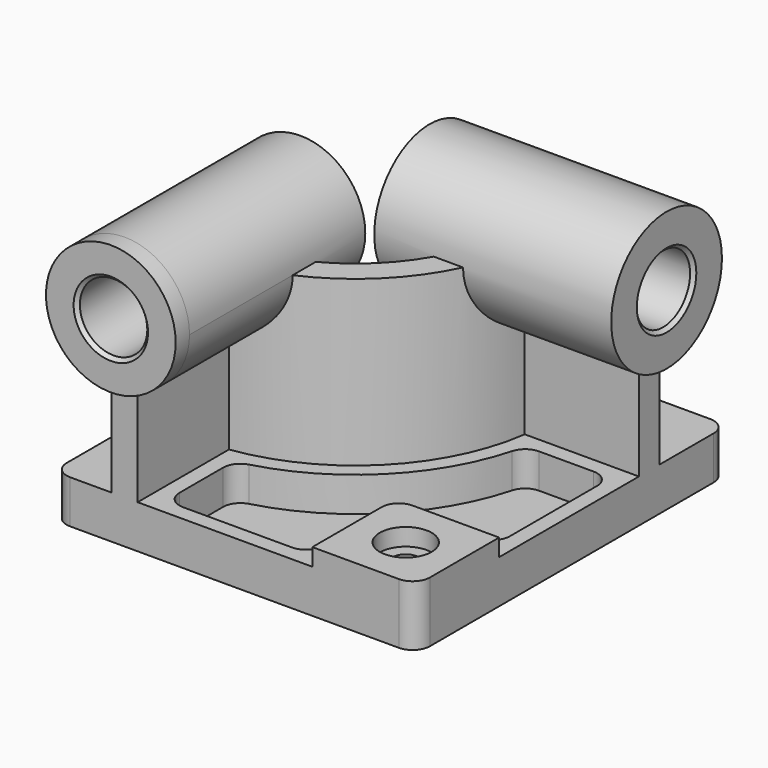
from build123d import *

# Parameters (mm, degrees)
F0_W            = 5334
F0_H            = 5715
F1_DEPTH        = 635
F3_DEPTH        = 2413
F4_R            = 952.5
F5_DEPTH        = 254
F5_DEPTH_BACK   = 3225.8
F6_R            = 1016
F7_DEPTH        = 254
F7_DEPTH_BACK   = 3225.8
F8_W            = 1524
F8_H            = 1524
F9_DEPTH        = 254
F10_R           = 254
F12_DEPTH       = 508
F14_D           = 381
F14_CBORE_D     = 762
F14_CBORE_DEPTH = 254
F15_R           = 254
F16_R           = 495.3
F17_DEPTH       = 5969.001
F18_R           = 495.3
F19_DEPTH       = 5588.001
F20_SIZE        = 50.8
F21_R           = 254


with BuildPart() as f1:
    # F0 (on Top) → F1 (new body)
    with BuildSketch(Plane.XY):
        Rectangle(F0_W, F0_H)
    extrude(amount=F1_DEPTH)

    # F2 (on face) → F3 (join)
    with BuildSketch(Plane.XY.offset(635)):
        with BuildLine():
            Line((-1803.4, -825.5), (-1803.4, -2857.5))
            Line((-1803.4, -2857.5), (-1422.4, -2857.5))
            Line((-1422.4, -2857.5), (-1422.4, -1180.638144))
            ThreePointArc((-1422.4, -1180.638144), (190.216859, -380.716859), (990.138144, 1231.9))
            Line((990.138144, 1231.9), (2667, 1231.9))
            Line((2667, 1231.9), (2667, 1612.9))
            Line((2667, 1612.9), (635, 1612.9))
            ThreePointArc((635, 1612.9), (-79.190825, -111.309175), (-1803.4, -825.5))
        make_face()
    extrude(amount=F3_DEPTH)

    # F4 (on face) → F5 (join, two sides)
    with BuildSketch(Plane.XZ.offset(2857.5)) as f5_sk:
        with Locations((-1612.9, 3048)):
            Circle(F4_R)
    extrude(amount=F5_DEPTH)
    extrude(f5_sk.sketch, amount=-F5_DEPTH_BACK)

    # F6 (on face) → F7 (join, two sides)
    with BuildSketch(Plane.YZ.offset(2667)) as f7_sk:
        with Locations((1422.4, 3048)):
            Circle(F6_R)
    extrude(amount=F7_DEPTH)
    extrude(f7_sk.sketch, amount=-F7_DEPTH_BACK)

    # F8 (on face) → F9 (join)
    with BuildSketch(Plane.XY.offset(635)):
        with Locations((1905, -2095.5)):
            Rectangle(F8_W, F8_H)
    extrude(amount=F9_DEPTH)

    # F10
    f10_edges = [f1.edges().sort_by_distance(p)[0] for p in [
        (1143, -1333.5, 762),
    ]]
    fillet(f10_edges, radius=F10_R)

    # F11 (on face) → F12 (cut)
    with BuildSketch(Plane.XY.offset(635)):
        with BuildLine():
            ThreePointArc((1183.017894, 1003.3), (351.861469, -542.361469), (-1193.8, -1373.517894))
            Line((-1193.8, -1373.517894), (-1193.8, -2628.9))
            Line((-1193.8, -2628.9), (914.4, -2628.9))
            Line((914.4, -2628.9), (914.4, -1587.5))
            ThreePointArc((914.4, -1587.5), (1055.750267, -1246.250267), (1397, -1104.9))
            Line((1397, -1104.9), (2438.4, -1104.9))
            Line((2438.4, -1104.9), (2438.4, 1003.3))
            Line((2438.4, 1003.3), (1183.017894, 1003.3))
        make_face()
    extrude(amount=-F12_DEPTH, mode=Mode.SUBTRACT)

    # F14 (through all)
    with Locations(Plane.XY.offset(889)):
        with Locations((1905, -2095.5)):
            CounterBoreHole(F14_D / 2, F14_CBORE_D / 2, F14_CBORE_DEPTH)

    # F15
    f15_edges = [f1.edges().sort_by_distance(p)[0] for p in [
        (-1193.8, -1373.517894, 381),
        (1183.017894, 1003.3, 381),
        (-1193.8, -2628.9, 381),
        (2438.4, 1003.3, 381),
        (914.4, -2628.9, 381),
        (2438.4, -1104.9, 381),
    ]]
    fillet(f15_edges, radius=F15_R)

    # F16 (on face) → F17 (cut, through all)
    with BuildSketch(Plane.XZ.offset(3111.5)):
        with Locations((-1612.9, 3048)):
            Circle(F16_R)
    extrude(amount=-F17_DEPTH, mode=Mode.SUBTRACT)

    # F18 (on face) → F19 (cut, through all)
    with BuildSketch(Plane.YZ.offset(2921)):
        with Locations((1422.4, 3048)):
            Circle(F18_R)
    extrude(amount=-F19_DEPTH, mode=Mode.SUBTRACT)

    # F20
    f20_edges = [f1.edges().sort_by_distance(p)[0] for p in [
        (-2108.2, -3111.5, 3048),
        (2921, 927.1, 3048),
        (-2108.2, 368.3, 3048),
        (-558.8, 927.1, 3048),
    ]]
    chamfer(f20_edges, length=F20_SIZE)

    # F21
    f21_edges = [f1.edges().sort_by_distance(p)[0] for p in [
        (2667, -2857.5, 444.5),
        (2667, 2857.5, 317.5),
        (-2667, -2857.5, 317.5),
        (-2667, 2857.5, 317.5),
    ]]
    fillet(f21_edges, radius=F21_R)


solid = f1.part
